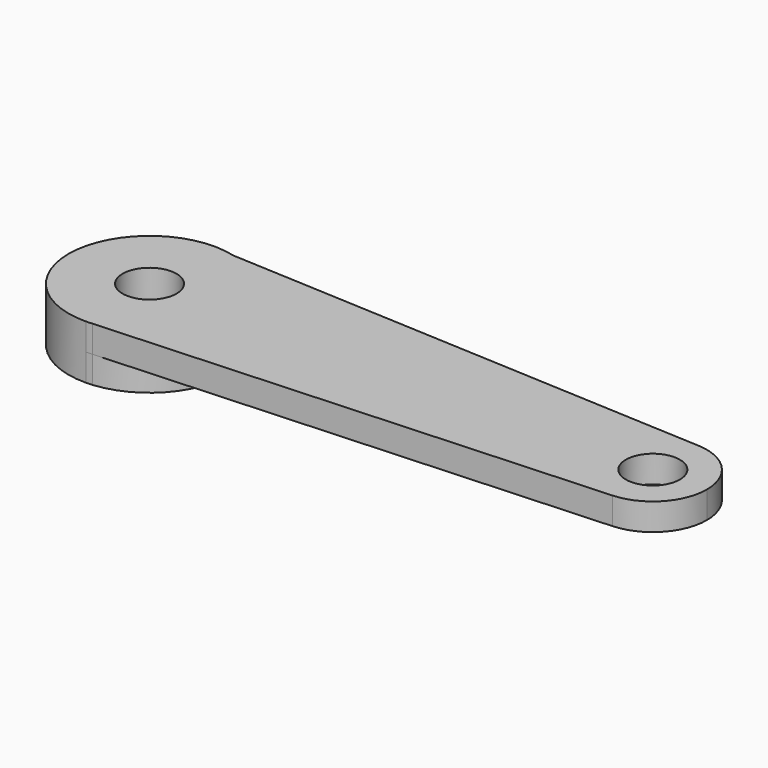
from build123d import *

# Parameters (mm, degrees)
F0_R     = 6.35
F1_DEPTH = 6.35
F2_DEPTH = 6.35


with BuildPart() as f1:
    # F0 (on Top) → F1 (new body, symmetric)
    with BuildSketch(Plane.XY):
        with BuildLine():
            ThreePointArc((-37.117956, 0), (-41.044935, 11.584332), (-51.206854, 18.392661))
            ThreePointArc((-51.206854, 18.392661), (-75.069307, 2.375167), (-55.911727, -19.048277))
            Line((-55.911727, -19.048277), (-54.388808, -18.966738))
            ThreePointArc((-54.388808, -18.966738), (-42.082586, -12.825945), (-37.117956, 0))
        make_face()
        with Locations((-56.167956, 0)):
            Circle(F0_R, mode=Mode.SUBTRACT)
    extrude(amount=F1_DEPTH, both=True)

    # F0 (on Top) → F2 (join, through all)
    with BuildSketch(Plane.XY):
        with BuildLine():
            ThreePointArc((62.995231, -12.681836), (71.533422, -8.736895), (75.016228, 0))
            ThreePointArc((75.016228, 0), (71.518003, 8.753133), (62.950507, 12.684151))
            ThreePointArc((62.950507, 12.684151), (49.616247, -0.022392), (62.995231, -12.681836))
        make_face()
        with Locations((62.316228, 0)):
            Circle(F0_R, mode=Mode.SUBTRACT)
        with BuildLine():
            ThreePointArc((62.995231, -12.681836), (49.616247, -0.022392), (62.950507, 12.684151))
            Line((62.950507, 12.684151), (-51.206854, 18.392661))
            ThreePointArc((-51.206854, 18.392661), (-41.044935, 11.584332), (-37.117956, 0))
            ThreePointArc((-37.117956, 0), (-42.082586, -12.825945), (-54.388808, -18.966738))
            Line((-54.388808, -18.966738), (62.995231, -12.681836))
        make_face()
        with BuildLine():
            ThreePointArc((-37.117956, 0), (-41.044935, 11.584332), (-51.206854, 18.392661))
            ThreePointArc((-51.206854, 18.392661), (-75.069307, 2.375167), (-55.911727, -19.048277))
            Line((-55.911727, -19.048277), (-54.388808, -18.966738))
            ThreePointArc((-54.388808, -18.966738), (-42.082586, -12.825945), (-37.117956, 0))
        make_face()
        with Locations((-56.167956, 0)):
            Circle(F0_R, mode=Mode.SUBTRACT)
        with BuildLine():
            ThreePointArc((-55.911727, -19.048277), (-55.149452, -19.022753), (-54.388808, -18.966738))
            Line((-54.388808, -18.966738), (-55.911727, -19.048277))
        make_face()
    extrude(amount=F2_DEPTH)


solid = f1.part
